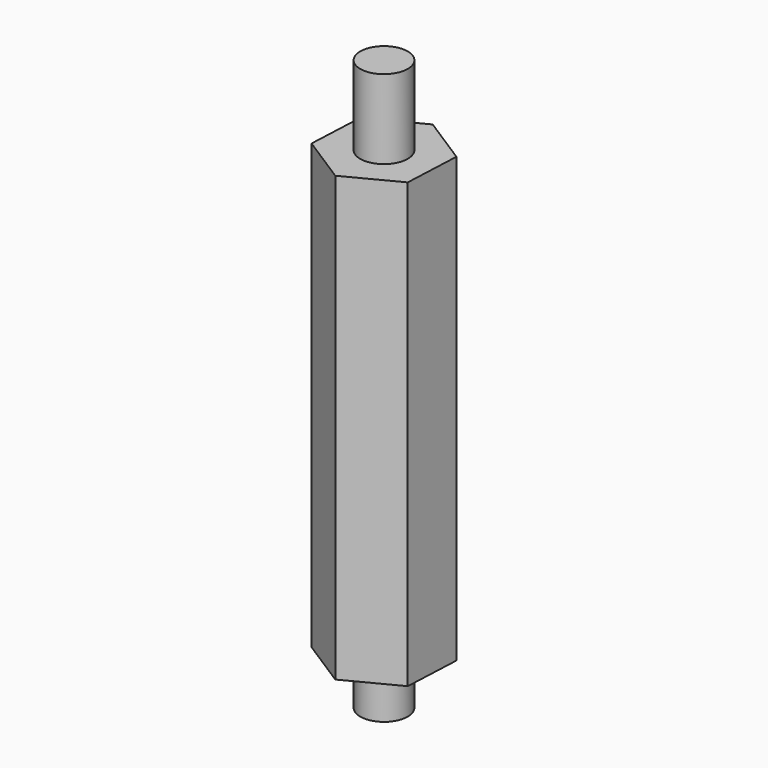
from build123d import *

# Parameters (mm, degrees)
F0_R     = 1.5
F1_DEPTH = 28
F2_DEPTH = 5
F3_R     = 1.5
F4_DEPTH = 3


with BuildPart() as f1:
    # F0 (on Top) → F1 (new body)
    with BuildSketch(Plane.XY):
        Polygon((-3.232447, -1.675851), (-0.164893, -3.637307), (3.067553, -1.961455), (3.232447, 1.675851), (0.164893, 3.637307), (-3.067553, 1.961455), align=None)
        Circle(F0_R, mode=Mode.SUBTRACT)
        Circle(F0_R)
    extrude(amount=-F1_DEPTH)

    # F0 (on Top) → F2 (join)
    with BuildSketch(Plane.XY):
        Circle(F0_R)
    extrude(amount=F2_DEPTH)

    # F3 (on face) → F4 (join)
    with BuildSketch(Plane(origin=(0, 0, -28), x_dir=(1, 0, 0), z_dir=(0, 0, -1))):
        Circle(F3_R)
    extrude(amount=F4_DEPTH)


solid = f1.part
